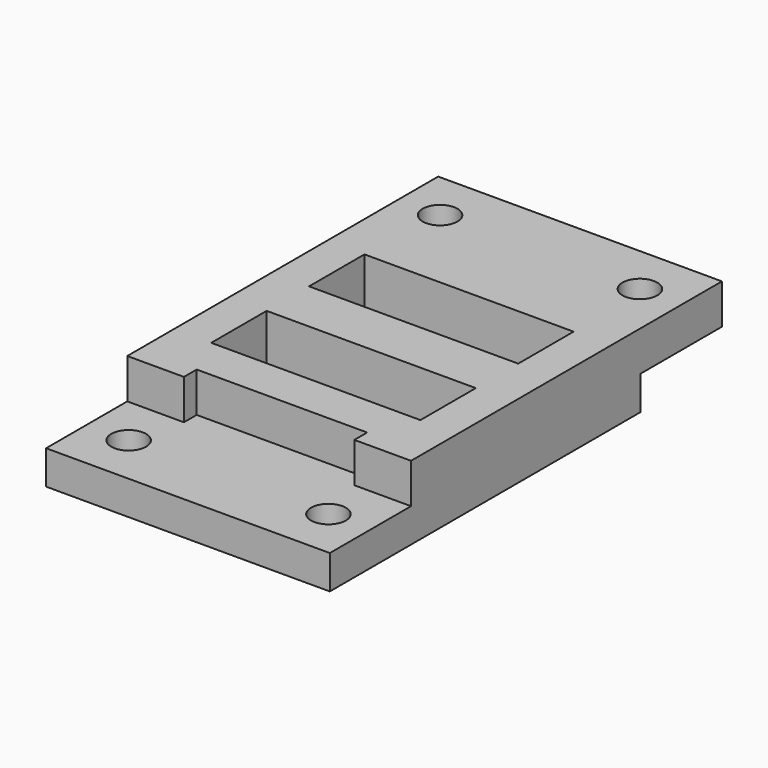
from build123d import *

# Parameters (mm, degrees)
F0_W      = 53.264
F0_H      = 92
F1_DEPTH  = 12.7
F2_W      = 53.264
F2_H      = 19.05
F3_DEPTH  = 6.35
F4_W      = 53.264
F4_H      = 19.05
F5_DEPTH  = 6.35
F6_DEPTH  = 1.15
F7_D      = 6.528
F8_W      = 39.264
F8_H      = 13
F9_DEPTH  = 13.851
F10_W     = 32
F10_H     = 7.5
F11_DEPTH = 3


with BuildPart() as f1:
    # F0 (on Top) → F1 (new body)
    with BuildSketch(Plane.XY):
        with Locations((3.9193365263, 5.0369417648)):
            Rectangle(F0_W, F0_H)
    extrude(amount=F1_DEPTH)

    # F2 (on face) → F3 (cut)
    with BuildSketch(Plane(origin=(0, 0, 0), x_dir=(1, 0, 0), z_dir=(0, 0, -1))):
        with Locations((3.9193365263, -41.5119417648)):
            Rectangle(F2_W, F2_H)
    extrude(amount=-F3_DEPTH, mode=Mode.SUBTRACT)

    # F4 (on face) → F5 (cut)
    with BuildSketch(Plane.XY.offset(12.7)):
        with Locations((3.9193365263, -31.4380582352)):
            Rectangle(F4_W, F4_H)
    extrude(amount=-F5_DEPTH, mode=Mode.SUBTRACT)

    # F6 (add): a face of the model
    f6_faces = [f1.faces().sort_by_distance(p)[0] for p in [
        (3.9193365263, 14.5619417648, 12.7),
    ]]
    extrude(f6_faces, amount=F6_DEPTH)

    # F7 (through all)
    with Locations(Plane(origin=(0, 0, 0), x_dir=(1, 0, 0), z_dir=(0, 0, -1))):
        with Locations((-14.8366634737, 31.4380582352), (22.6753365263, 31.4380582352), (-14.8366634737, -41.6389417648), (22.6753365263, -41.6389417648)):
            Hole(F7_D / 2)

    # F8 (on face) → F9 (cut, through all)
    with BuildSketch(Plane(origin=(0, 0, 0), x_dir=(1, 0, 0), z_dir=(0, 0, -1))):
        with Locations((3.9193365263, 4.4630582352)):
            Rectangle(F8_W, F8_H)
        with Locations((3.9193365263, -18.4869417648)):
            Rectangle(F8_W, F8_H)
    extrude(amount=-F9_DEPTH, mode=Mode.SUBTRACT)

    # F10 (on face) → F11 (cut)
    with BuildSketch(Plane.XZ.offset(21.9130582352)):
        with Locations((3.9193365263, 10.1)):
            Rectangle(F10_W, F10_H)
    extrude(amount=-F11_DEPTH, mode=Mode.SUBTRACT)


solid = f1.part
